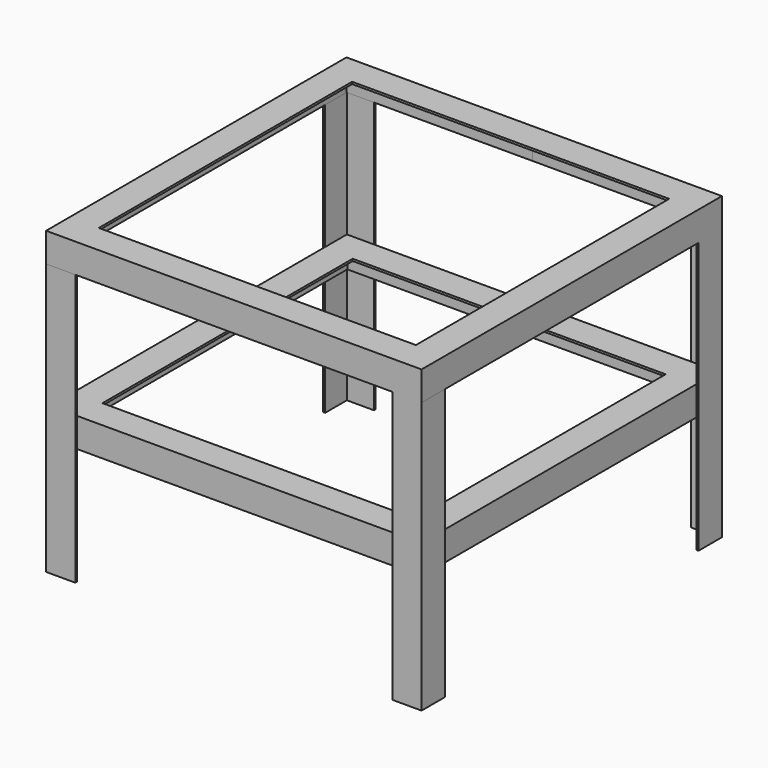
from build123d import *

# Parameters (mm, degrees)
F5_DEPTH = 650


with BuildPart() as f3:
    # F3: sweep along a path in F0
    with BuildLine(Plane.XY) as f3_path:
        Line((0, 0), (0, -900))
        Line((0, -900), (900, -899.4184353972))
        Line((900, -899.4184353972), (900, 0))
        Line((900, 0), (0, 0))
    # F2 (on offset) → F3 (sweep)
    with BuildSketch(Plane.XZ.offset(450)):
        Polygon((70, 0), (0, 0), (0, -70), (5, -70), (5, -5), (70, -5), align=None)
    sweep(path=f3_path.line, transition=Transition.RIGHT)

    # F4 (on face) → F5 (join)
    with BuildSketch(Plane(origin=(0, 0, -70), x_dir=(1, 0, 0), z_dir=(0, 0, -1))):
        Polygon((0, 70), (0, 0), (70, 0), (70, 5), (5, 5), (5, 70), align=None)
    extrude(amount=F5_DEPTH)


with BuildPart() as f6_1:
    # F6: instance of F3
    add(f3.part.mirror(Plane.XZ.offset(450)))


with BuildPart() as f8_1:
    # F8: instance of F6_1
    add(f6_1.part.mirror(Plane.YZ.offset(450)))


with BuildPart() as f8_2:
    # F8: instance of F3
    add(f3.part.mirror(Plane.YZ.offset(450)))


with BuildPart() as f12:
    # F12: sweep along a path in F11
    with BuildLine(Plane.XY.offset(-370)) as f12_path:
        Line((450.0871598721, -5.1080398262), (894.9875235558, -5.1080398262))
        Line((894.9875235558, -5.1080398262), (895.0144648552, -894.7012424469))
        Line((895.0144648552, -894.7012424469), (5.1137078553, -894.7012424469))
        Line((5.1137078553, -894.7012424469), (5.1137078553, -5.1080398262))
        Line((5.1137078553, -5.1080398262), (450.0871598721, -5.1080398262))
    # F9 (on offset) → F12 (sweep)
    with BuildSketch(Plane.YZ.offset(450)):
        Polygon((-5, -440), (-5, -370), (-75, -370), (-75, -375), (-10, -375), (-10, -440), align=None)
    sweep(path=f12_path.line, transition=Transition.RIGHT)


solid = Compound([f3.part, f6_1.part, f8_1.part, f8_2.part, f12.part])
